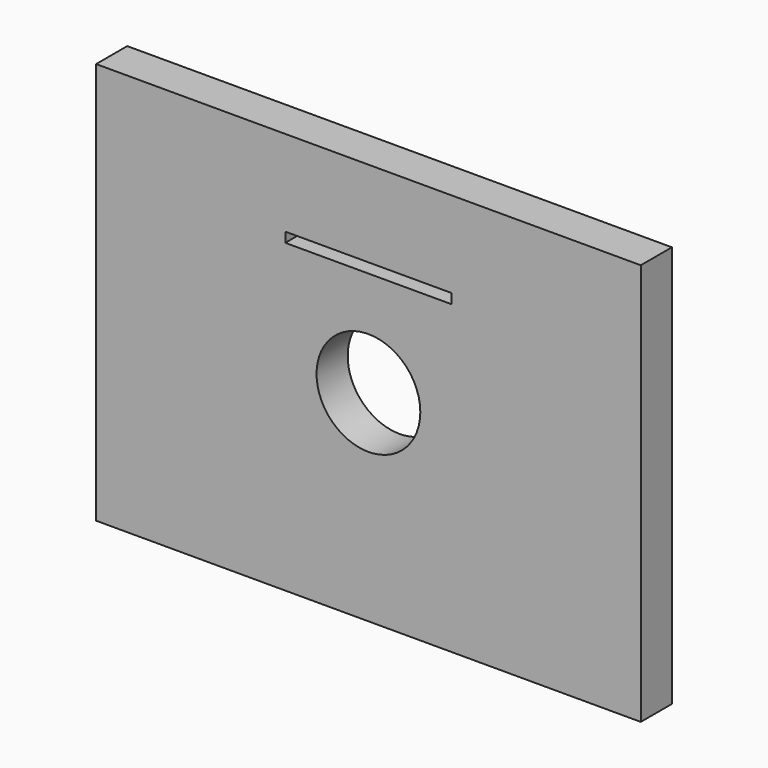
from build123d import *

# Parameters (mm, degrees)
F0_W     = 266.7
F0_H     = 196.85
F0_R     = 25.4
F0_W_2   = 81.420928
F0_H_2   = 4.83457
F1_DEPTH = 19.05
F2_W     = 81.420928
F2_H     = 4.83457
F3_DEPTH = 6.35


with BuildPart() as f1:
    # F0 (on Front) → F1 (new body)
    with BuildSketch(Plane.XZ):
        Rectangle(F0_W, F0_H)
        Circle(F0_R, mode=Mode.SUBTRACT)
        with Locations((0, 53.905435)):
            Rectangle(F0_W_2, F0_H_2, mode=Mode.SUBTRACT)
    extrude(amount=F1_DEPTH)

    # F2 (on face) → F3 (join)
    with BuildSketch(Plane(origin=(0, 0, 0), x_dir=(-1, 0, 0), z_dir=(0, 1, 0))):
        with Locations((0, 53.905435)):
            Rectangle(F2_W, F2_H)
    extrude(amount=-F3_DEPTH)


solid = f1.part
